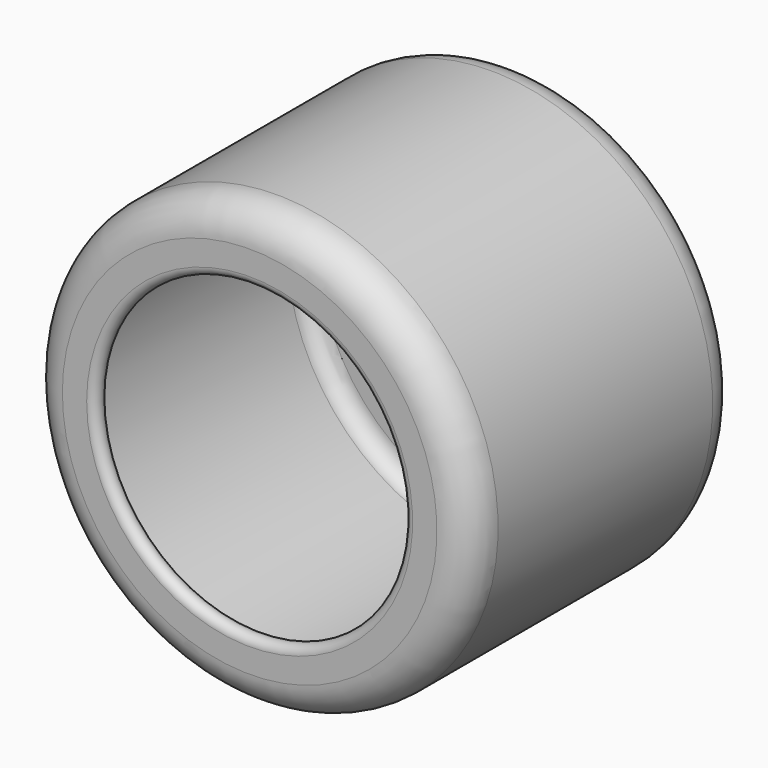
from build123d import *


with BuildPart() as f1:
    # F0 (on Top) → F1 (revolve)
    with BuildSketch(Plane.XY):
        with BuildLine():
            ThreePointArc((-5.51, 4.945), (-6.2171067812, 4.6521067812), (-6.51, 3.945))
            Line((-6.51, 3.945), (-6.51, 0))
            Line((-6.51, 0), (-6.51, -3.945))
            ThreePointArc((-6.51, -3.945), (-6.2171067812, -4.6521067812), (-5.51, -4.945))
            Line((-5.51, -4.945), (-4.795, -4.945))
            ThreePointArc((-4.795, -4.945), (-4.545, -4.695), (-4.795, -4.445))
            Line((-4.795, -4.445), (-5.51, -4.445))
            ThreePointArc((-5.51, -4.445), (-5.8635533906, -4.2985533906), (-6.01, -3.945))
            Line((-6.01, -3.945), (-6.01, 0))
            Line((-6.01, 0), (-6.01, 3.945))
            ThreePointArc((-6.01, 3.945), (-5.8635533906, 4.2985533906), (-5.51, 4.445))
            Line((-5.51, 4.445), (-4.795, 4.445))
            ThreePointArc((-4.795, 4.445), (-4.545, 4.695), (-4.795, 4.945))
            Line((-4.795, 4.945), (-5.51, 4.945))
        make_face()
    revolve(axis=Axis((0, 1.2051877566, 0), (0, -1, 0)))


solid = f1.part
